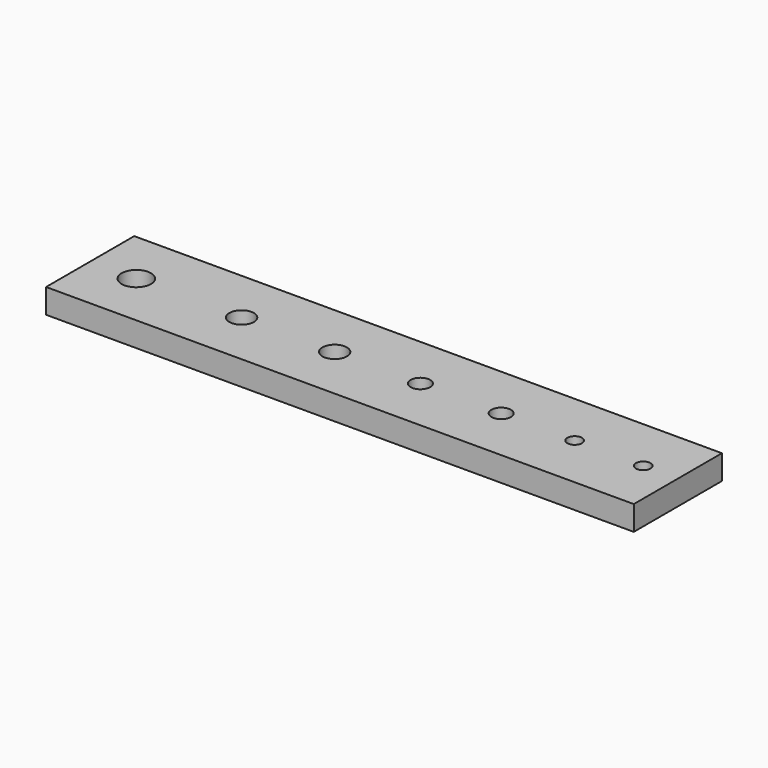
from build123d import *

# Parameters (mm, degrees)
SKETCH_W   = 240
SKETCH_H   = 45
SKETCH_R   = 6
SKETCH_R_2 = 5
SKETCH_R_3 = 4
SKETCH_R_4 = 3
PAD_DEPTH  = 10


with BuildPart() as part:
    # Sketch → Pad (new body)
    with BuildSketch(Plane.XY):
        with Locations((120, 22.5)):
            Rectangle(SKETCH_W, SKETCH_H)
        with Locations((18.850358, 22.5)):
            Circle(SKETCH_R, mode=Mode.SUBTRACT)
        with Locations((61.850358, 22.5)):
            Circle(SKETCH_R_2, mode=Mode.SUBTRACT)
        with Locations((99.850358, 22.5)):
            Circle(SKETCH_R_2, mode=Mode.SUBTRACT)
        with Locations((134.850358, 22.5)):
            Circle(SKETCH_R_3, mode=Mode.SUBTRACT)
        with Locations((167.850358, 22.5)):
            Circle(SKETCH_R_3, mode=Mode.SUBTRACT)
        with Locations((197.850358, 22.5)):
            Circle(SKETCH_R_4, mode=Mode.SUBTRACT)
        with Locations((225.850358, 22.5)):
            Circle(SKETCH_R_4, mode=Mode.SUBTRACT)
    extrude(amount=PAD_DEPTH)


solid = part.part
